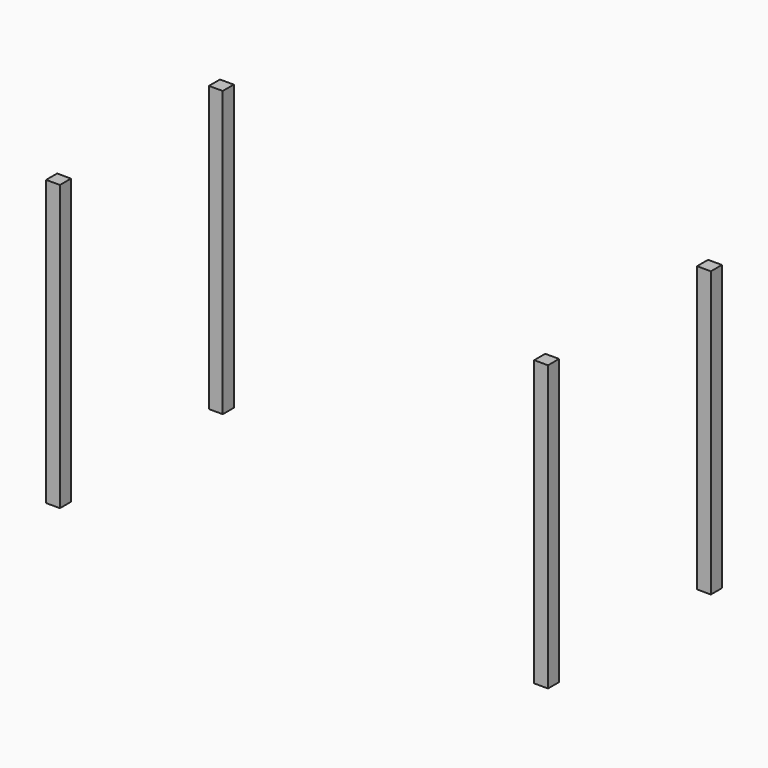
from build123d import *

# Parameters (mm, degrees)
F0_W     = 88.9
F0_H     = 88.9
F1_DEPTH = 1828.8


with BuildPart() as f1:
    # F0 (on Top) → F1 (new body)
    with BuildSketch(Plane.XY):
        Polygon((44.45, 609.6), (44.45, 698.5), (-44.45, 698.5), (-44.45, 609.6), (0, 609.6), align=None)
        Polygon((44.45, -609.6), (0, -609.6), (-44.45, -609.6), (-44.45, -698.5), (44.45, -698.5), align=None)
        with Locations((-3136.9, 654.05)):
            Rectangle(F0_W, F0_H)
        with Locations((-3136.9, -654.05)):
            Rectangle(F0_W, F0_H)
    extrude(amount=F1_DEPTH)


solid = f1.part
